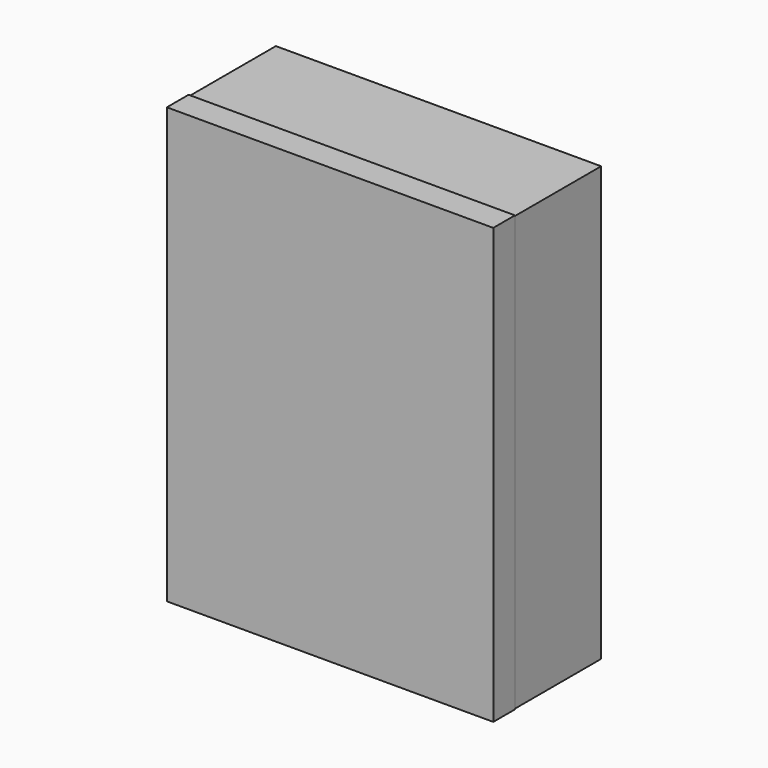
from build123d import *

# Parameters (mm, degrees)
F0_W     = 76.2
F0_H     = 101.6
F0_W_2   = 25.4
F0_H_2   = 30.48
F1_DEPTH = 25.4
F2_W     = 76.462764
F2_H     = 101.884663
F3_DEPTH = 6.35


with BuildPart() as f1:
    # F0 (on Front) → F1 (new body)
    with BuildSketch(Plane.XZ):
        Rectangle(F0_W, F0_H)
        with Locations((-15.480864, -24.765002)):
            Rectangle(F0_W_2, F0_H_2, mode=Mode.SUBTRACT)
        with Locations((16.269136, -24.751032)):
            Rectangle(F0_W_2, F0_H_2, mode=Mode.SUBTRACT)
        with Locations((-15.480864, 18.414998)):
            Rectangle(F0_W_2, F0_H_2, mode=Mode.SUBTRACT)
        with Locations((16.269136, 18.414998)):
            Rectangle(F0_W_2, F0_H_2, mode=Mode.SUBTRACT)
    extrude(amount=-F1_DEPTH)

    # F2 (on Front) → F3 (join)
    with BuildSketch(Plane.XZ):
        with Locations((-2e-06, 0.098533)):
            Rectangle(F2_W, F2_H)
    extrude(amount=F3_DEPTH)


solid = f1.part
